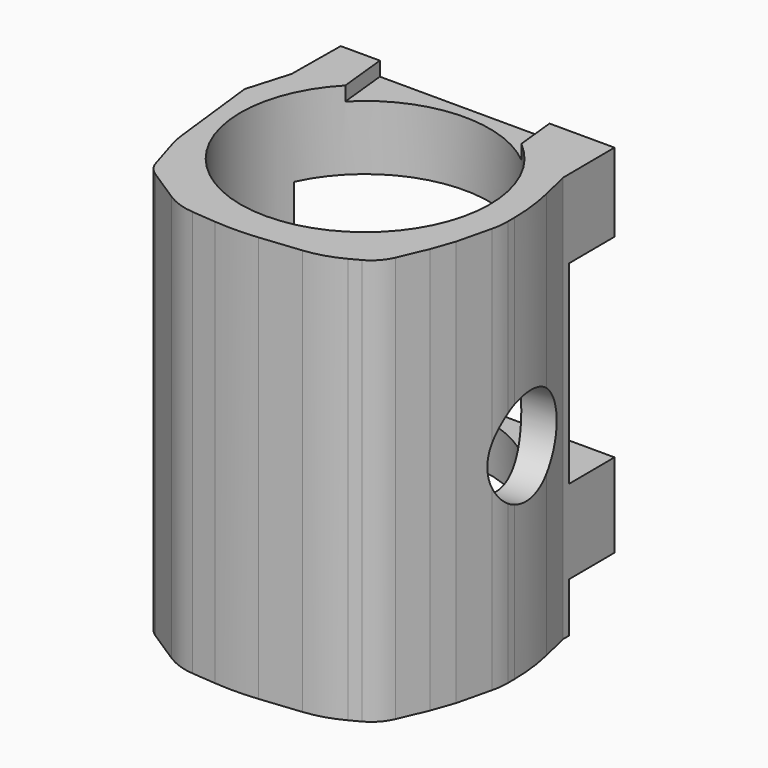
from build123d import *

# Parameters (mm, degrees)
SKETCH786_R             = 9.5
PAD342_DEPTH            = 31
SKETCH800_R             = 3.640093
SKETCH800_W             = 8.018949
SKETCH800_H             = 14.81283
SKETCH800_H_2           = 4.909163
POCKET216_DEPTH         = 8.316326
POCKET216_DEPTH_BACK    = 14.315221
SKETCH801_W             = 12.891265
SKETCH801_H             = 2.411679
SKETCH801_H_2           = 1.655072
SKETCH801_H_3           = 2.506252
SKETCH801_H_4           = 2.364388
POCKET217_DEPTH         = 14.211133
BODY063_PLACEMENT_ANGLE = 6


with BuildPart() as part:
    # Sketch786 → Pad342 (new body)
    with BuildSketch(Plane.XY.offset(62)):
        with BuildLine():
            Line((-6.48502, 14.210133), (14.314221, 11.983735))
            Line((14.314221, 11.983735), (13.827026, 7.082384))
            Line((13.827026, 7.082384), (14.121025, 4.779397))
            ThreePointArc((14.172916, 1.163416), (14.248889, 2.972869), (14.121025, 4.779397))
            Line((14.172916, 1.163416), (14.111788, 0.543408))
            ThreePointArc((13.818994, -0.764609), (14.005316, -0.119537), (14.111788, 0.543408))
            Line((13.818994, -0.764609), (12.909272, -3.318828))
            Line((12.122626, -4.979527), (12.909272, -3.318828))
            Line((10.986399, -7.012774), (12.122626, -4.979527))
            ThreePointArc((9.464654, -8.352981), (10.340262, -7.813155), (10.986399, -7.012774))
            Line((8.698858, -8.661427), (9.464654, -8.352981))
            ThreePointArc((5.823821, -9.218676), (7.288092, -9.078079), (8.698858, -8.661427))
            Line((2.72265, -9.218676), (5.823821, -9.218676))
            ThreePointArc((-0.561662, -8.908793), (1.073201, -9.141034), (2.72265, -9.218676))
            Line((-2.382517, -8.562102), (-0.561662, -8.908793))
            ThreePointArc((-4.482526, -7.588171), (-3.492747, -8.204996), (-2.382517, -8.562102))
            Line((-6.882625, -5.64591), (-4.482526, -7.588171))
            ThreePointArc((-7.614123, -4.427153), (-7.356079, -5.101176), (-6.882625, -5.64591))
            Line((-7.614123, -4.427153), (-8.095536, -1.933202))
            ThreePointArc((-8.235814, -0.549404), (-8.196714, -1.24445), (-8.095536, -1.933202))
            Line((-8.315326, 6.446385), (-8.235814, -0.549404))
            Line((-7.012325, 9.610864), (-8.315326, 6.446385))
            Line((-7.012325, 9.610864), (-6.48502, 14.210133))
        make_face()
        with Locations((2.566633, 2.779747)):
            Circle(SKETCH786_R, mode=Mode.SUBTRACT)
    extrude(amount=-PAD342_DEPTH)

    # Sketch800 → Pocket216 (cut, two sides)
    with BuildSketch(Plane.YZ) as pocket216_sk:
        with Locations((2.543955, 46.080971)):
            Circle(SKETCH800_R)
        with Locations((11.659285, 48.601678)):
            Rectangle(SKETCH800_W, SKETCH800_H)
        with Locations((11.659285, 32.332169)):
            Rectangle(SKETCH800_W, SKETCH800_H_2)
    extrude(amount=-POCKET216_DEPTH, mode=Mode.SUBTRACT)
    extrude(pocket216_sk.sketch, amount=POCKET216_DEPTH_BACK, mode=Mode.SUBTRACT)

    # Sketch801 → Pocket217 (cut, through all)
    with BuildSketch(Plane.XZ):
        with Locations((2.932228, 62.127093)):
            Rectangle(SKETCH801_W, SKETCH801_H)
        with Locations((2.932228, 30.93466)):
            Rectangle(SKETCH801_W, SKETCH801_H_2)
        with Locations((2.932228, 36.431635)):
            Rectangle(SKETCH801_W, SKETCH801_H_3)
        with Locations((2.932228, 53.693306)):
            Rectangle(SKETCH801_W, SKETCH801_H_4)
    extrude(amount=-POCKET217_DEPTH, mode=Mode.SUBTRACT)


with BuildPart() as part_1:
    # Body063 placement: moved
    add(part.part.moved(Location((1.045285, -9.945219, -20.5))).rotate(Axis((1.045285, -9.945219, -20.5), (0, 0, 1)), BODY063_PLACEMENT_ANGLE))


solid = part_1.part
